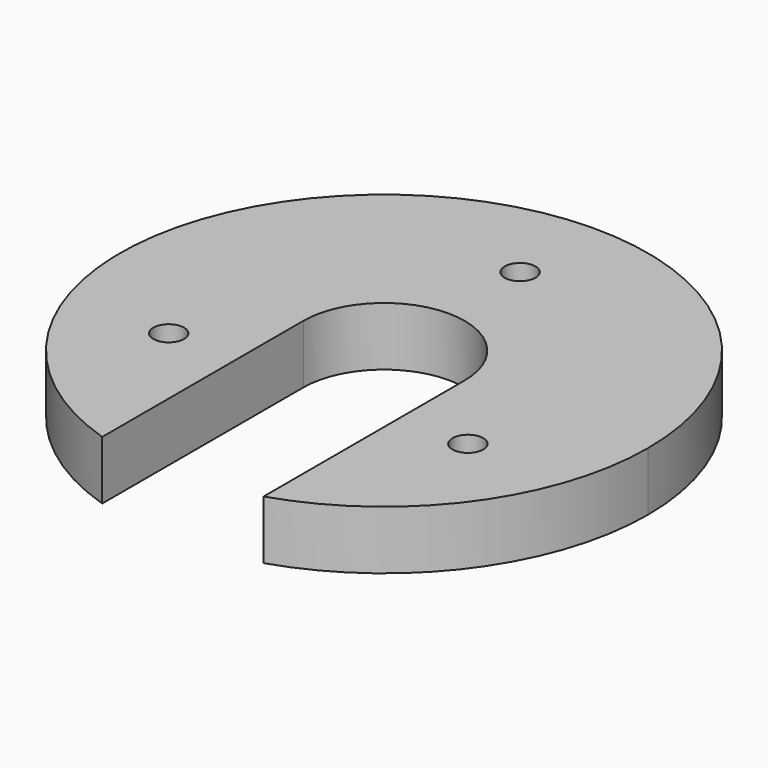
from build123d import *

# Parameters (mm, degrees)
F0_R     = 8
F0_R_2   = 5.25
F1_DEPTH = 20
F2_DEPTH = 20.001
F3_DEPTH = 10


with BuildPart() as f1:
    # F0 (on Top) → F1 (new body)
    with BuildSketch(Plane.XY):
        with BuildLine():
            ThreePointArc((27.5, -85.695683), (72.715198, -53.033009), (90, 0))
            ThreePointArc((90, 0), (-53.033009, 72.715198), (-27.5, -85.695683))
            Line((-27.5, -85.695683), (-27.5, 0))
            ThreePointArc((-27.5, 0), (0, 27.5), (27.5, 0))
            Line((27.5, 0), (27.5, -85.695683))
        make_face()
        with Locations((-51, -28)):
            Circle(F0_R, mode=Mode.SUBTRACT)
        with Locations((51, -28)):
            Circle(F0_R, mode=Mode.SUBTRACT)
        with Locations((0, 58)):
            Circle(F0_R, mode=Mode.SUBTRACT)
        with Locations((-51, -28)):
            Circle(F0_R_2)
        with Locations((-51, -28)):
            Circle(F0_R)
        with Locations((-51, -28)):
            Circle(F0_R_2, mode=Mode.SUBTRACT)
        with Locations((51, -28)):
            Circle(F0_R)
        with Locations((51, -28)):
            Circle(F0_R_2, mode=Mode.SUBTRACT)
        with Locations((51, -28)):
            Circle(F0_R_2)
        with Locations((0, 58)):
            Circle(F0_R)
        with Locations((0, 58)):
            Circle(F0_R_2, mode=Mode.SUBTRACT)
        with Locations((0, 58)):
            Circle(F0_R_2)
    extrude(amount=F1_DEPTH)

    # F0 (on Top) → F2 (cut, through all)
    with BuildSketch(Plane.XY):
        with Locations((0, 58)):
            Circle(F0_R_2)
        with Locations((-51, -28)):
            Circle(F0_R_2)
        with Locations((51, -28)):
            Circle(F0_R_2)
    extrude(amount=F2_DEPTH, mode=Mode.SUBTRACT)

    # F0 (on Top) → F3 (cut)
    with BuildSketch(Plane.XY):
        with Locations((0, 58)):
            Circle(F0_R)
        with Locations((0, 58)):
            Circle(F0_R_2, mode=Mode.SUBTRACT)
        with Locations((51, -28)):
            Circle(F0_R)
        with Locations((51, -28)):
            Circle(F0_R_2, mode=Mode.SUBTRACT)
        with Locations((-51, -28)):
            Circle(F0_R)
        with Locations((-51, -28)):
            Circle(F0_R_2, mode=Mode.SUBTRACT)
    extrude(amount=F3_DEPTH, mode=Mode.SUBTRACT)


solid = f1.part
